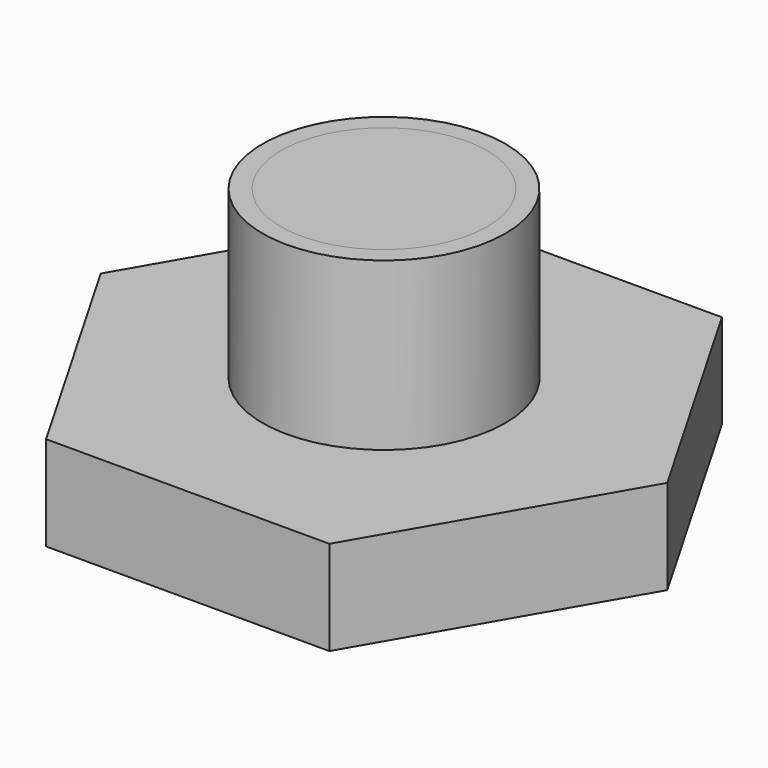
from build123d import *

# Parameters (mm, degrees)
F1_START      = -0.45
F1_DEPTH      = 3.85
F2_W          = 3.85
F2_H          = 3.85
F4_DEPTH      = 0.45
F5_R          = 4.95
F5_R_2        = 4.2
F6_DEPTH      = 6.35
F6_DEPTH_BACK = 0.45
F7_START      = 6
F7_DEPTH      = 0.35


with BuildPart() as f1:
    # F0 (on Top) → F1 (new body)
    with BuildSketch(Plane.XY.offset(F1_START)):
        Polygon((-5.7735026919, -10), (5.7735026919, -10), (11.5470053838, 0), (5.7735026919, 10), (-5.7735026919, 10), (-11.5470053838, 0), align=None)
    extrude(amount=-F1_DEPTH)


with BuildPart() as f3:
    # F2 (on Top) → F3 (revolve)
    with BuildSketch(Plane.XY):
        with BuildLine():
            Line((-1.38, 0), (1.38, 0))
            ThreePointArc((1.38, 0), (0, 1.38), (-1.38, 0))
        make_face()
    revolve(axis=Axis((0, 0, 0), (1, 0, 0)))


with BuildPart() as f4:
    # F2 (on Top) → F4 (new body)
    with BuildSketch(Plane.XY):
        Rectangle(F2_W, F2_H)
        with BuildLine():
            ThreePointArc((-1.38, 0), (0, 1.38), (1.38, 0))
            ThreePointArc((1.38, 0), (0, -1.38), (-1.38, 0))
        make_face(mode=Mode.SUBTRACT)
        with BuildLine():
            Line((-1.38, 0), (1.38, 0))
            ThreePointArc((1.38, 0), (0, 1.38), (-1.38, 0))
        make_face()
        with BuildLine():
            ThreePointArc((-1.38, 0), (0, -1.38), (1.38, 0))
            Line((1.38, 0), (-1.38, 0))
        make_face()
    extrude(amount=-F4_DEPTH)


with BuildPart() as f6:
    # F5 (on Top) → F6 (new body, two sides)
    with BuildSketch(Plane.XY) as f6_sk:
        Circle(F5_R)
        Circle(F5_R_2, mode=Mode.SUBTRACT)
    extrude(amount=F6_DEPTH)
    extrude(f6_sk.sketch, amount=-F6_DEPTH_BACK)


with BuildPart() as f7:
    # F5 (on Top) → F7 (new body)
    with BuildSketch(Plane.XY.offset(F7_START)):
        Circle(F5_R_2)
    extrude(amount=F7_DEPTH)


solid = Compound([f1.part, f3.part, f4.part, f6.part, f7.part])
